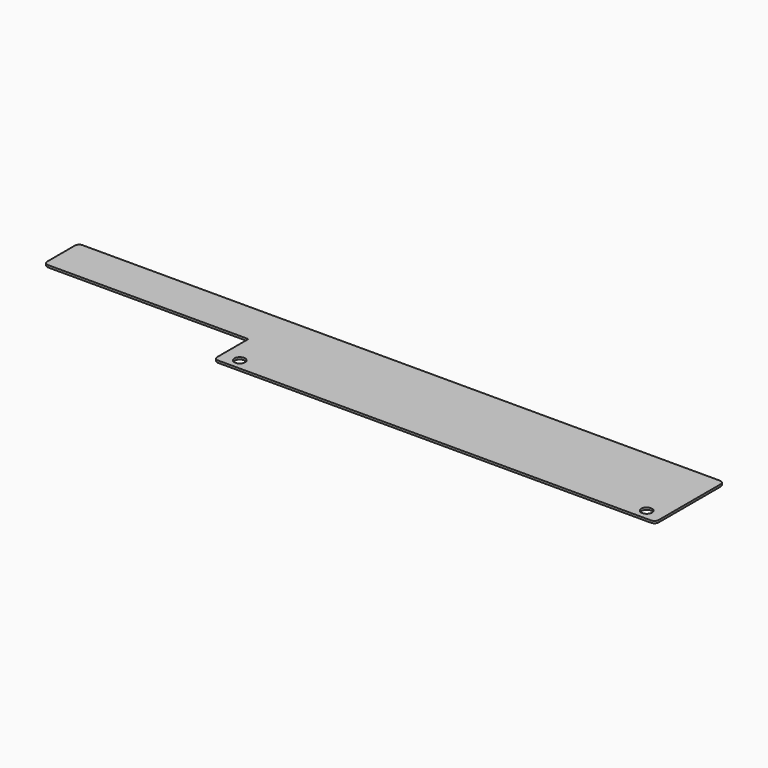
from build123d import *

# Parameters (mm, degrees)
F1_DEPTH = 1
F2_R     = 2
F3_R     = 0.5
F5_D     = 5


with BuildPart() as f1:
    # F0 (on Top) → F1 (new body)
    with BuildSketch(Plane.XY):
        Polygon((0, -40), (0, 0), (-300, 0), (-300, -20), (-205, -20), (-205, -40), align=None)
    extrude(amount=-F1_DEPTH)

    # F2
    f2_edges = [f1.edges().sort_by_distance(p)[0] for p in [
        (-300, -20, -0.5),
        (-300, 0, -0.5),
        (-205, -40, -0.5),
        (0, 0, -0.5),
        (0, -40, -0.5),
    ]]
    fillet(f2_edges, radius=F2_R)

    # F3
    f3_edges = [f1.edges().sort_by_distance(p)[0] for p in [
        (-205, -20, -0.5),
    ]]
    fillet(f3_edges, radius=F3_R)

    # F5 (through all)
    with Locations(Plane.XY):
        with Locations((-197, -35), (-8, -35)):
            Hole(F5_D / 2)


solid = f1.part
